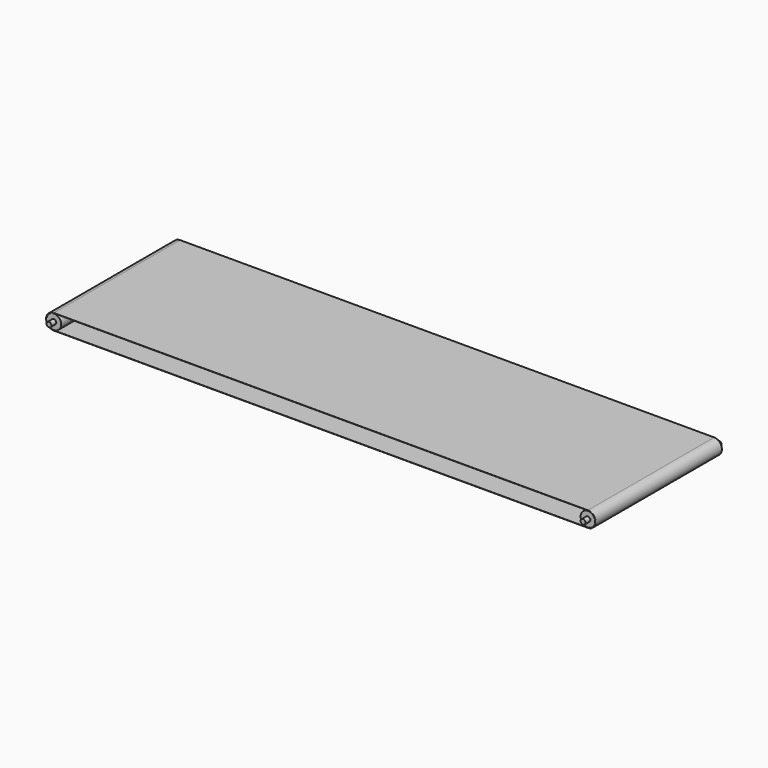
from build123d import *

# Parameters (mm, degrees)
F0_R     = 10
F1_DEPTH = 350
F3_R     = 30
F4_DEPTH = 325
F8_DEPTH = 650


with BuildPart() as f1:
    # F0 (on Front) → F1 (new body, symmetric)
    with BuildSketch(Plane.XZ):
        Circle(F0_R)
    extrude(amount=F1_DEPTH, both=True)

    # F3 (on offset) → F4 (join, symmetric)
    with BuildSketch(Plane.XZ):
        Circle(F3_R)
    extrude(amount=F4_DEPTH, both=True)


with BuildPart() as f6_1:
    # F6: instance of F1
    add(f1.part.mirror(Plane.YZ.offset(1100)))


with BuildPart() as f8:
    # F7 (on face) → F8 (new body, through all)
    with BuildSketch(Plane.XZ.offset(325)):
        with BuildLine():
            Line((2200, 32), (0, 32))
            ThreePointArc((0, 32), (-32, 0), (0, -32))
            Line((0, -32), (2200, -32))
            ThreePointArc((2200, -32), (2232, 0), (2200, 32))
        make_face()
        with BuildLine():
            ThreePointArc((0, -31), (-31, 0), (0, 31))
            Line((0, 31), (2200, 31))
            ThreePointArc((2200, 31), (2231, 0), (2200, -31))
            Line((2200, -31), (0, -31))
        make_face(mode=Mode.SUBTRACT)
    extrude(amount=-F8_DEPTH)


solid = Compound([f1.part, f6_1.part, f8.part])
